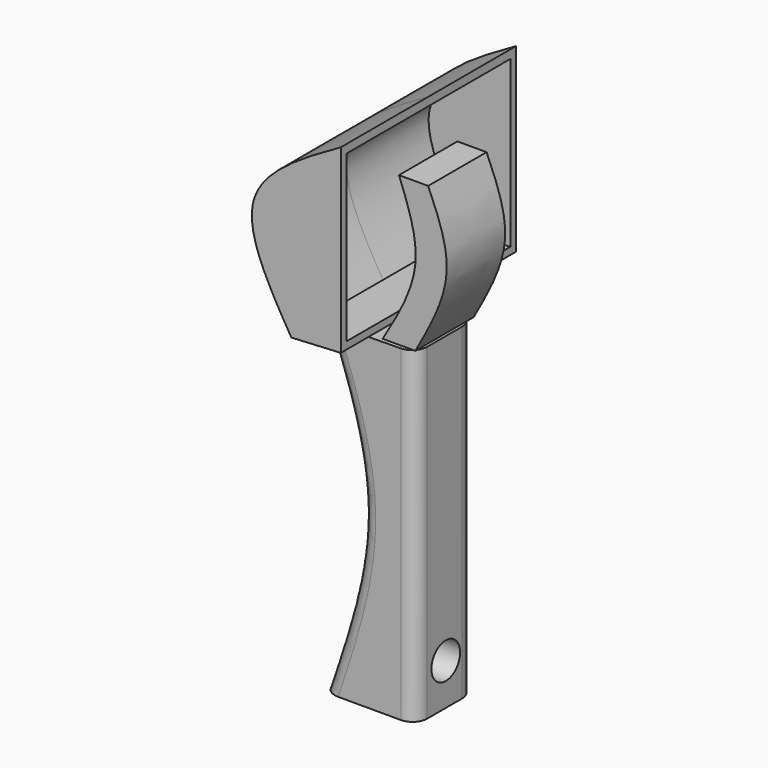
from build123d import *

# Parameters (mm, degrees)
F1_DEPTH = 25.4
F3_DEPTH = 38.1
F5_DEPTH = 25.4
F6_T     = -2.54
F7_R     = 6.2376942626
F8_DEPTH = 76.962
F9_R     = 5.08


with BuildPart() as f1:
    # F0 (on Front) → F1 (new body)
    with BuildSketch(Plane.XZ):
        with BuildLine():
            Line((25.7757790387, -59.4990924001), (25.7757790387, 54.3439313769))
            Line((25.7757790387, 54.3439313769), (-6.443947088, 53.9143383503))
            add(Edge.make_bspline(
                [(-6.443947088, -59.4990924001), (0.3209026486, -39.4095928561), (13.5419675651, -0.1471424018), (0.1135326519, 36.1764929279), (-6.443947088, 53.9143383503)],
                knots=[0, 0, 0, 0, 0.5116720763, 1, 1, 1, 1], degree=3))
            Line((-6.443947088, -59.4990924001), (25.7757790387, -59.4990924001))
        make_face()
    extrude(amount=F1_DEPTH)

    # F7 (on face) → F8 (cut)
    with BuildSketch(Plane.YZ.offset(25.7757790387)):
        with Locations((-12.2509924695, -45.008007437)):
            Circle(F7_R)
    extrude(amount=-F8_DEPTH, mode=Mode.SUBTRACT)

    # F9
    f9_edges = [f1.edges().sort_by_distance(p)[0] for p in [
        (25.775779, -25.4, -2.577581),
        (25.775779, 0, -2.577581),
        (6.858147, -25.4, -2.720222),
        (6.858147, 0, -2.720222),
    ]]
    fillet(f9_edges, radius=F9_R)


with BuildPart() as f3:
    # F2 (on Front) → F3 (new body, symmetric)
    with BuildSketch(Plane.XZ):
        with BuildLine():
            Line((-7.2460789233, 53.666241467), (9.9633475766, 54.5720010996))
            Line((9.9633475766, 54.5720010996), (9.9633475766, 117.5222694874))
            add(Edge.make_bspline(
                [(9.9633475766, 117.5222694874), (-3.7854881295, 109.7243710835), (-31.2290050407, 94.1592889709), (-15.2298638868, 67.146155561), (-7.2460789233, 53.666241467)],
                knots=[0, 0, 0, 0, 0.5009866538, 1, 1, 1, 1], degree=3))
        make_face()
    extrude(amount=F3_DEPTH, both=True)

    # F6
    f6_openings = [f3.faces().sort_by_distance(p)[0] for p in [
        (9.963348, 0, 86.047135),
    ]]
    offset(amount=F6_T, openings=f6_openings, kind=Kind.INTERSECTION)


with BuildPart() as f5:
    # F4 (on Front) → F5 (new body)
    with BuildSketch(Plane.XZ):
        with BuildLine():
            add(Edge.make_bspline(
                [(14.3468296155, 55.1610998809), (19.6321787876, 64.0644294014), (29.9057546636, 81.3705767157), (23.2619311282, 98.694895747), (20.0360924937, 107.1065366268)],
                knots=[0, 0, 0, 0, 0.5144605185, 1, 1, 1, 1], degree=3))
            Line((14.3468296155, 55.1610998809), (25.7253553718, 55.1610998809))
            add(Edge.make_bspline(
                [(30.1778223366, 107.1065366268), (33.6315224553, 99.120987607), (40.8477390376, 82.4358530342), (30.9079403999, 64.5084177682), (25.7253553718, 55.1610998809)],
                knots=[0, 0, 0, 0, 0.4786026139, 1, 1, 1, 1], degree=3))
            Line((30.1778223366, 107.1065366268), (20.0360924937, 107.1065366268))
        make_face()
    extrude(amount=F5_DEPTH)


solid = Compound([f1.part, f3.part, f5.part])
